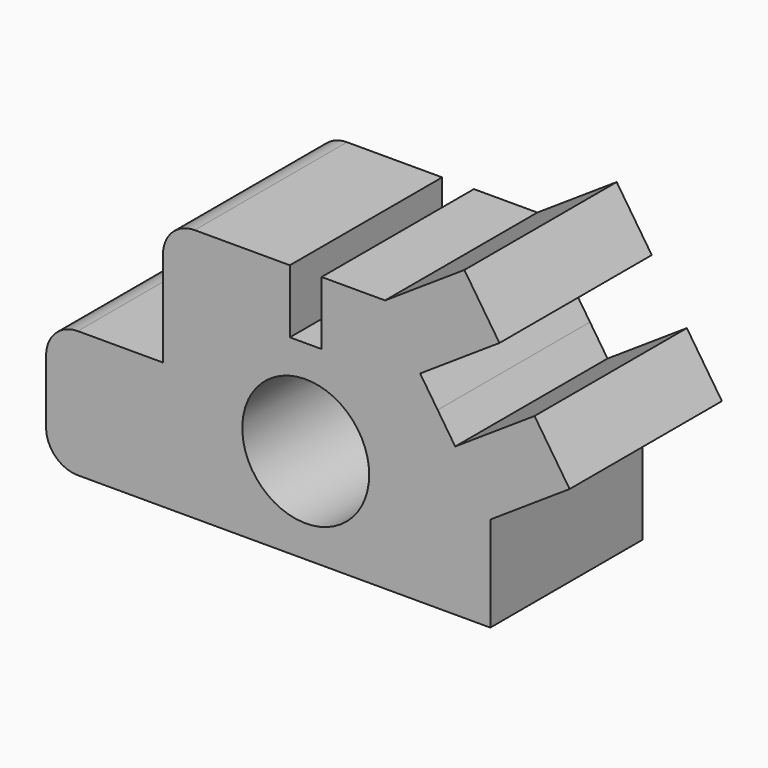
from build123d import *

# Parameters (mm, degrees)
F0_R     = 10
F1_DEPTH = 30


with BuildPart() as f1:
    # F0 (on Front) → F1 (new body)
    with BuildSketch(Plane.XZ):
        with BuildLine():
            Line((27.499998, 41.240266), (15, 32.948701))
            Line((15, 32.948701), (5, 32.948701))
            Line((5, 32.948701), (5, 22.948701))
            Line((5, 22.948701), (0, 22.948701))
            Line((0, 22.948701), (0, 32.948701))
            Line((0, 32.948701), (-15, 32.948701))
            ThreePointArc((-15, 32.948701), (-18.535534, 31.484235), (-20, 27.948701))
            Line((-20, 27.948701), (-20, 12.948702))
            Line((-20, 12.948702), (-33.41687, 12.948702))
            ThreePointArc((-33.41687, 12.948702), (-36.952404, 11.484236), (-38.41687, 7.948702))
            Line((-38.41687, 7.948702), (-38.41687, -2.051296))
            ThreePointArc((-38.41687, -2.051296), (-36.952404, -5.58683), (-33.41687, -7.051296))
            Line((-33.41687, -7.051296), (31.58313, -7.051296))
            Line((31.58313, -7.051296), (31.58313, 7.948704))
            Line((31.58313, 7.948704), (44.083128, 16.240268))
            Line((44.083128, 16.240268), (38.555418, 24.5736))
            Line((38.555418, 24.5736), (26.05542, 16.282036))
            Line((26.05542, 16.282036), (23.291564, 20.448704))
            Line((23.291564, 20.448704), (20.52771, 24.615369))
            Line((20.52771, 24.615369), (33.027708, 32.906933))
            Line((33.027708, 32.906933), (27.499998, 41.240266))
        make_face()
        with Locations((2.5, 7.948704)):
            Circle(F0_R, mode=Mode.SUBTRACT)
    extrude(amount=F1_DEPTH)


solid = f1.part
